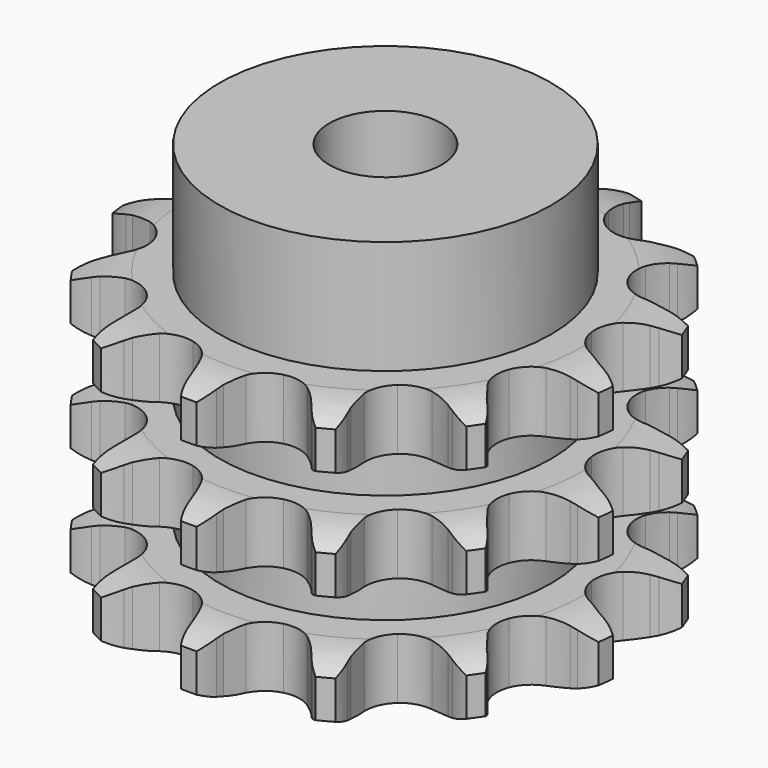
from build123d import *

# Parameters (mm, degrees)
PAD_DEPTH         = 49.8
SKETCH001_R       = 29.5
PAD001_DEPTH      = 70
SKETCH002_R       = 10
POCKET_DEPTH      = 0.001
POCKET_DEPTH_BACK = 70.001


with BuildPart() as part:
    # Sprocket → Pad (new body)
    with BuildSketch(Plane.XY):
        with BuildLine():
            ThreePointArc((-10.916349, 44.289369), (-8.817314, 42.490887), (-7.281562, 40.192637))
            Line((-7.281562, 40.192637), (-6.735182, 39.068563))
            ThreePointArc((-6.735182, 39.068563), (-5.81288, 37.428138), (-4.701609, 35.909352))
            ThreePointArc((-4.701609, 35.909352), (-2.597907, 34.278231), (0, 33.697713))
            ThreePointArc((0, 33.697713), (2.597907, 34.278231), (4.701609, 35.909352))
            ThreePointArc((4.701609, 35.909352), (5.81288, 37.428138), (6.735182, 39.068563))
            Line((6.735182, 39.068563), (7.281562, 40.192637))
            ThreePointArc((7.281562, 40.192637), (8.817314, 42.490887), (10.916349, 44.289369))
            ThreePointArc((10.916349, 44.289369), (11.939156, 41.721422), (12.230947, 38.972724))
            Line((12.230947, 38.972724), (12.192359, 37.72349))
            ThreePointArc((12.192359, 37.72349), (12.246674, 35.842351), (12.52484, 33.981099))
            ThreePointArc((12.52484, 33.981099), (13.629556, 31.559174), (15.660108, 29.837843))
            ThreePointArc((15.660108, 29.837843), (18.230221, 29.144559), (20.850976, 29.611205))
            Line((20.850976, 29.611205), (24.119774, 31.4635))
            ThreePointArc((24.119774, 31.4635), (24.615511, 31.84418), (25.125953, 32.204902))
            ThreePointArc((25.125953, 32.204902), (27.553844, 33.526202), (30.248243, 34.143208))
            ThreePointArc((30.248243, 34.143208), (29.960509, 31.394082), (28.941493, 28.824629))
            Line((28.941493, 28.824629), (28.326778, 27.73642))
            ThreePointArc((28.326778, 27.73642), (27.500662, 26.045512), (26.881999, 24.268186))
            ThreePointArc((26.881999, 24.268186), (26.734652, 21.61029), (27.732675, 19.142483))
            ThreePointArc((27.732675, 19.142483), (29.686211, 17.33422), (32.223636, 16.529488))
            Line((32.223636, 16.529488), (35.978817, 16.650528))
            ThreePointArc((35.978817, 16.650528), (36.594681, 16.757222), (37.214291, 16.839412))
            ThreePointArc((37.214291, 16.839412), (39.97812, 16.881067), (42.650629, 16.17525))
            ThreePointArc((42.650629, 16.17525), (41.118271, 13.874737), (39.021893, 12.073159))
            Line((39.021893, 12.073159), (37.971873, 11.39527))
            ThreePointArc((37.971873, 11.39527), (36.45458, 10.281961), (35.080816, 8.995723))
            ThreePointArc((35.080816, 8.995723), (33.715161, 6.710749), (33.452019, 4.061811))
            ThreePointArc((33.452019, 4.061811), (34.341447, 1.552819), (36.214249, -0.338935))
            Line((36.214249, -0.338935), (39.595546, -1.97688))
            ThreePointArc((39.595546, -1.97688), (40.19045, -2.168613), (40.777283, -2.383785))
            ThreePointArc((40.777283, -2.383785), (43.24389, -3.631316), (45.28227, -5.498263))
            ThreePointArc((45.28227, -5.498263), (42.856332, -6.823144), (40.162847, -7.444126))
            Line((40.162847, -7.444126), (38.91807, -7.556399))
            ThreePointArc((38.91807, -7.556399), (37.057193, -7.837064), (35.243041, -8.337551))
            ThreePointArc((35.243041, -8.337551), (32.971933, -9.726143), (31.507909, -11.949374))
            ThreePointArc((31.507909, -11.949374), (31.129473, -14.584313), (31.908614, -17.129713))
            Line((31.908614, -17.129713), (34.141413, -20.151408))
            ThreePointArc((34.141413, -20.151408), (34.579072, -20.597644), (34.998691, -21.060885))
            ThreePointArc((34.998691, -21.060885), (36.603007, -23.311808), (37.540289, -25.91219))
            ThreePointArc((37.540289, -25.91219), (34.776525, -25.957925), (32.102976, -25.256052))
            Line((32.102976, -25.256052), (30.948606, -24.776988))
            ThreePointArc((30.948606, -24.776988), (29.17045, -24.160711), (27.33151, -23.760792))
            ThreePointArc((27.33151, -23.760792), (24.675233, -23.934894), (22.345717, -25.223101))
            ThreePointArc((22.345717, -25.223101), (20.786111, -27.380355), (20.2931, -29.99628))
            Line((20.2931, -29.99628), (20.865894, -33.709491))
            ThreePointArc((20.865894, -33.709491), (21.046045, -34.308004), (21.202321, -34.91319))
            ThreePointArc((21.202321, -34.91319), (21.576815, -37.651847), (21.19828, -40.389947))
            ThreePointArc((21.19828, -40.389947), (18.729834, -39.146058), (16.688701, -37.282121))
            Line((16.688701, -37.282121), (15.889189, -36.321467))
            ThreePointArc((15.889189, -36.321467), (14.601108, -34.949432), (13.15866, -33.740723))
            ThreePointArc((13.15866, -33.740723), (10.725734, -32.660448), (8.064391, -32.718519))
            ThreePointArc((8.064391, -32.718519), (5.680901, -33.903888), (4.028681, -35.99106))
            Line((4.028681, -35.99106), (2.81025, -39.545136))
            ThreePointArc((2.81025, -39.545136), (2.691623, -40.158814), (2.548754, -40.767304))
            ThreePointArc((2.548754, -40.767304), (1.607636, -43.3663), (0, -45.614854))
            ThreePointArc((0, -45.614854), (-1.607636, -43.3663), (-2.548754, -40.767304))
            Line((-2.548754, -40.767304), (-2.81025, -39.545136))
            ThreePointArc((-2.81025, -39.545136), (-3.313172, -37.731658), (-4.028681, -35.99106))
            ThreePointArc((-4.028681, -35.99106), (-5.680901, -33.903888), (-8.064391, -32.718519))
            ThreePointArc((-8.064391, -32.718519), (-10.725734, -32.660448), (-13.15866, -33.740723))
            Line((-13.15866, -33.740723), (-15.889189, -36.321467))
            ThreePointArc((-15.889189, -36.321467), (-16.279418, -36.809723), (-16.688701, -37.282121))
            ThreePointArc((-16.688701, -37.282121), (-18.729834, -39.146058), (-21.19828, -40.389947))
            ThreePointArc((-21.19828, -40.389947), (-21.576815, -37.651847), (-21.202321, -34.91319))
            Line((-21.202321, -34.91319), (-20.865894, -33.709491))
            ThreePointArc((-20.865894, -33.709491), (-20.468444, -31.870016), (-20.2931, -29.99628))
            ThreePointArc((-20.2931, -29.99628), (-20.786111, -27.380355), (-22.345717, -25.223101))
            ThreePointArc((-22.345717, -25.223101), (-24.675233, -23.934894), (-27.33151, -23.760792))
            Line((-27.33151, -23.760792), (-30.948606, -24.776988))
            ThreePointArc((-30.948606, -24.776988), (-31.52104, -25.027968), (-32.102976, -25.256052))
            ThreePointArc((-32.102976, -25.256052), (-34.776525, -25.957925), (-37.540289, -25.91219))
            ThreePointArc((-37.540289, -25.91219), (-36.603007, -23.311808), (-34.998691, -21.060885))
            Line((-34.998691, -21.060885), (-34.141413, -20.151408))
            ThreePointArc((-34.141413, -20.151408), (-32.934642, -18.707338), (-31.908614, -17.129713))
            ThreePointArc((-31.908614, -17.129713), (-31.129473, -14.584313), (-31.507909, -11.949374))
            ThreePointArc((-31.507909, -11.949374), (-32.971933, -9.726143), (-35.243041, -8.337551))
            Line((-35.243041, -8.337551), (-38.91807, -7.556399))
            ThreePointArc((-38.91807, -7.556399), (-39.541572, -7.512608), (-40.162847, -7.444126))
            ThreePointArc((-40.162847, -7.444126), (-42.856332, -6.823144), (-45.28227, -5.498263))
            ThreePointArc((-45.28227, -5.498263), (-43.24389, -3.631316), (-40.777283, -2.383785))
            Line((-40.777283, -2.383785), (-39.595546, -1.97688))
            ThreePointArc((-39.595546, -1.97688), (-37.85591, -1.259034), (-36.214249, -0.338935))
            ThreePointArc((-36.214249, -0.338935), (-34.341447, 1.552819), (-33.452019, 4.061811))
            ThreePointArc((-33.452019, 4.061811), (-33.715161, 6.710749), (-35.080816, 8.995723))
            Line((-35.080816, 8.995723), (-37.971873, 11.39527))
            ThreePointArc((-37.971873, 11.39527), (-38.503606, 11.723801), (-39.021893, 12.073159))
            ThreePointArc((-39.021893, 12.073159), (-41.118271, 13.874737), (-42.650629, 16.17525))
            ThreePointArc((-42.650629, 16.17525), (-39.97812, 16.881067), (-37.214291, 16.839412))
            Line((-37.214291, 16.839412), (-35.978817, 16.650528))
            ThreePointArc((-35.978817, 16.650528), (-34.104846, 16.4777), (-32.223636, 16.529488))
            ThreePointArc((-32.223636, 16.529488), (-29.686211, 17.33422), (-27.732675, 19.142483))
            ThreePointArc((-27.732675, 19.142483), (-26.734652, 21.61029), (-26.881999, 24.268186))
            Line((-26.881999, 24.268186), (-28.326778, 27.73642))
            ThreePointArc((-28.326778, 27.73642), (-28.644928, 28.274428), (-28.941493, 28.824629))
            ThreePointArc((-28.941493, 28.824629), (-29.960509, 31.394082), (-30.248243, 34.143208))
            ThreePointArc((-30.248243, 34.143208), (-27.553844, 33.526202), (-25.125953, 32.204902))
            Line((-25.125953, 32.204902), (-24.119774, 31.4635))
            ThreePointArc((-24.119774, 31.4635), (-22.540773, 30.439591), (-20.850976, 29.611205))
            ThreePointArc((-20.850976, 29.611205), (-18.230221, 29.144559), (-15.660108, 29.837843))
            ThreePointArc((-15.660108, 29.837843), (-13.629556, 31.559174), (-12.52484, 33.981099))
            Line((-12.52484, 33.981099), (-12.192359, 37.72349))
            ThreePointArc((-12.192359, 37.72349), (-12.224042, 38.347724), (-12.230947, 38.972724))
            ThreePointArc((-12.230947, 38.972724), (-11.939156, 41.721422), (-10.916349, 44.289369))
        make_face()
    extrude(amount=PAD_DEPTH)

    # Sketch → Groove (revolve, cut)
    with BuildSketch(Plane.XZ):
        with BuildLine():
            ThreePointArc((35.264719, 0), (39.623618, 0.506758), (43.75, 2))
            Line((43.75, 2), (43.75, 8.8))
            ThreePointArc((43.75, 8.8), (39.623618, 10.293242), (35.264719, 10.8))
            Line((29.5, 10.8), (35.264719, 10.8))
            Line((29.5, 10.8), (29.5, 19.5))
            Line((29.5, 19.5), (35.264719, 19.5))
            ThreePointArc((35.264719, 19.5), (39.623618, 20.006758), (43.75, 21.5))
            Line((43.75, 28.3), (43.75, 21.5))
            ThreePointArc((43.75, 28.3), (39.623618, 29.793242), (35.264719, 30.3))
            Line((29.5, 30.3), (35.264719, 30.3))
            Line((29.5, 39), (29.5, 30.3))
            Line((35.264719, 39), (29.5, 39))
            ThreePointArc((35.264719, 39), (39.623618, 39.506758), (43.75, 41))
            Line((43.75, 41), (43.75, 47.8))
            ThreePointArc((43.75, 47.8), (39.623618, 49.293242), (35.264719, 49.8))
            Line((35.264719, 49.8), (53.75, 49.8))
            Line((53.75, 49.8), (53.75, 0))
            Line((35.264719, 0), (53.75, 0))
        make_face()
    revolve(axis=Axis((0, 0, 0), (0, 0, 1)), mode=Mode.SUBTRACT)

    # Sketch001 → Pad001 (join)
    with BuildSketch(Plane.XY):
        Circle(SKETCH001_R)
    extrude(amount=PAD001_DEPTH)

    # Sketch002 → Pocket (cut, two sides)
    with BuildSketch(Plane.XY) as pocket_sk:
        Circle(SKETCH002_R)
    extrude(amount=-POCKET_DEPTH, mode=Mode.SUBTRACT)
    extrude(pocket_sk.sketch, amount=POCKET_DEPTH_BACK, mode=Mode.SUBTRACT)


solid = part.part
